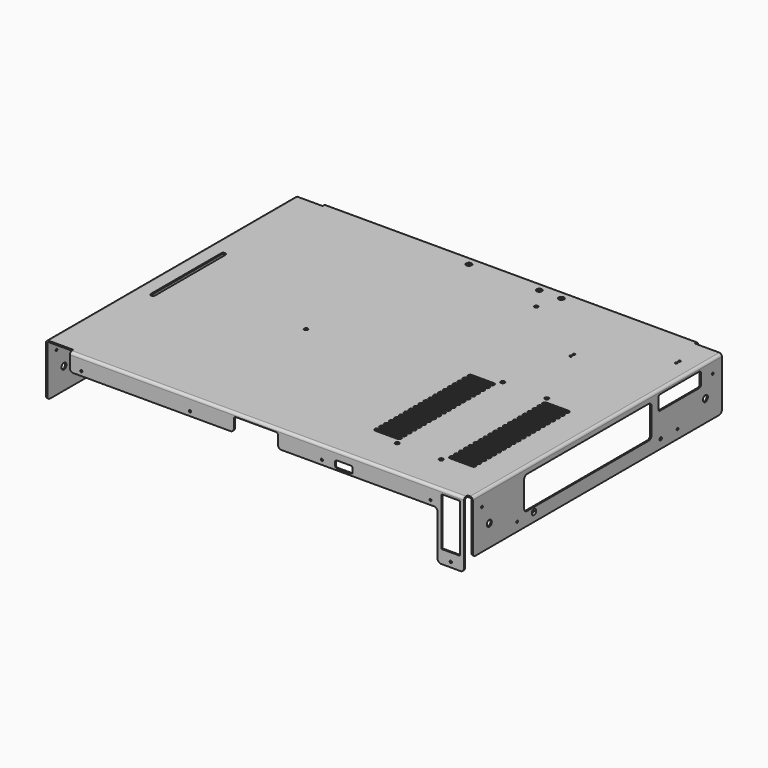
from build123d import *

# Parameters (mm, degrees)
PAD001_DEPTH  = 2.5
ARRAY_Y_COUNT = 20
ARRAY_Y_PITCH = 6.96
SKETCH_W      = 485
SKETCH_H      = 364
SKETCH_R      = 2.07
SKETCH_R_2    = 3.1
SKETCH_R_3    = 1.23
SKETCH_R_4    = 2.25
PAD_DEPTH     = 1.5
SKETCH002_W   = 31
SKETCH002_H   = 5
SKETCH002_W_2 = 6
POCKET_DEPTH  = 5
SKETCH003_W   = 354
SKETCH003_H   = 60
SKETCH003_R   = 1.23
SKETCH003_R_2 = 3.5
SKETCH003_R_3 = 1.7
SKETCH003_W_2 = 181
SKETCH003_H_2 = 37
SKETCH003_W_3 = 60
SKETCH003_H_3 = 16.5
PAD002_DEPTH  = 1.5
FILLET_R      = 4
FILLET001_R   = 2
CHAMFER_SIZE  = 1.45
SKETCH004_W   = 354
SKETCH004_H   = 60
SKETCH004_R   = 1.23
SKETCH004_R_2 = 3.5
PAD003_DEPTH  = 1.5
FILLET002_R   = 4
SKETCH005_R   = 1.23
SKETCH005_W   = 21.3
SKETCH005_H   = 54.9
SKETCH005_W_2 = 20
SKETCH005_H_2 = 8
PAD004_DEPTH  = 1.5
FILLET003_R   = 4
FILLET004_R   = 2
FILLET005_R   = 1
SKETCH006_R   = 1.23
PAD005_DEPTH  = 1.5
FILLET006_R   = 1
FILLET007_R   = 4
FILLET008_R   = 1.5
FILLET009_R   = 3


with BuildPart() as array:
    # Sketch001 → Pad001 (new body, symmetric)
    with BuildSketch(Plane.XY):
        with BuildLine():
            Line((95.00002, 6.15), (120.00002, 6.15))
            ThreePointArc((119.999999, 1.15), (122.5, 3.64999), (120.00002, 6.15))
            Line((95.00004, 1.15), (119.999999, 1.15))
            ThreePointArc((95.00002, 6.15), (92.50004, 3.64999), (95.00004, 1.15))
        make_face()
        with BuildLine():
            Line((180, 6.15), (204.99998, 6.15))
            ThreePointArc((205, 1.15), (207.499981, 3.65001), (204.99998, 6.15))
            Line((180, 1.15), (205, 1.15))
            ThreePointArc((180, 6.15), (177.5, 3.65), (180, 1.15))
        make_face()
    extrude(amount=PAD001_DEPTH, both=True)

    # Array Y: Array ×20


with BuildPart() as array_1:
    add(array.part)
    with Locations(*[(0, -i * ARRAY_Y_PITCH, 0) for i in range(1, ARRAY_Y_COUNT)]):
        add(array.part)


with BuildPart() as fillet009:
    # Sketch → Pad (new body)
    with BuildSketch(Plane.XY):
        Rectangle(SKETCH_W, SKETCH_H)
        with Locations((-75, -17)):
            Circle(SKETCH_R, mode=Mode.SUBTRACT)
        with Locations((-40, 170.7)):
            Circle(SKETCH_R_2, mode=Mode.SUBTRACT)
        with Locations((40, 170.7)):
            Circle(SKETCH_R_2, mode=Mode.SUBTRACT)
        with Locations((65, 170.7)):
            Circle(SKETCH_R_2, mode=Mode.SUBTRACT)
        with Locations((57.5, 144.5)):
            Circle(SKETCH_R, mode=Mode.SUBTRACT)
        with Locations((222.17, 142)):
            Circle(SKETCH_R_3, mode=Mode.SUBTRACT)
        with Locations((222.17, 137.5)):
            Circle(SKETCH_R_3, mode=Mode.SUBTRACT)
        with Locations((140.89, 93.74)):
            Circle(SKETCH_R_3, mode=Mode.SUBTRACT)
        with Locations((140.89, 89.24)):
            Circle(SKETCH_R_3, mode=Mode.SUBTRACT)
        with Locations((125, 12.5)):
            Circle(SKETCH_R_4, mode=Mode.SUBTRACT)
        with Locations((125, -137.5)):
            Circle(SKETCH_R_4, mode=Mode.SUBTRACT)
        with Locations((175, -137.5)):
            Circle(SKETCH_R_4, mode=Mode.SUBTRACT)
        with Locations((175, 12.5)):
            Circle(SKETCH_R_4, mode=Mode.SUBTRACT)
        with BuildLine():
            Line((-225, 50), (-225, -50))
            ThreePointArc((-225, -50), (-222.5, -52.5), (-220, -50))
            Line((-220, 50), (-220, -50))
            ThreePointArc((-220, 50), (-222.5, 52.5), (-225, 50))
        make_face(mode=Mode.SUBTRACT)
    extrude(amount=PAD_DEPTH)

    # Cut: cut Array
    add(array_1.part, mode=Mode.SUBTRACT)

    # Sketch002 → Pocket (cut)
    with BuildSketch(Plane.XY.offset(1.5)):
        with Locations((-227, 179.5)):
            Rectangle(SKETCH002_W, SKETCH002_H)
        with Locations((-227, -179.5)):
            Rectangle(SKETCH002_W, SKETCH002_H)
        with Locations((227, 179.5)):
            Rectangle(SKETCH002_W, SKETCH002_H)
        with Locations((239.5, -179.5)):
            Rectangle(SKETCH002_W_2, SKETCH002_H)
    extrude(amount=-POCKET_DEPTH, mode=Mode.SUBTRACT)

    # Sketch003 → Pad002 (new body)
    with BuildSketch(Plane.YZ.offset(242.5)):
        with Locations((0, -28.5)):
            Rectangle(SKETCH003_W, SKETCH003_H)
        with Locations((-164, -13.5)):
            Circle(SKETCH003_R, mode=Mode.SUBTRACT)
        with Locations((-153.5, -34)):
            Circle(SKETCH003_R_2, mode=Mode.SUBTRACT)
        with Locations((-114, -48.5)):
            Circle(SKETCH003_R, mode=Mode.SUBTRACT)
        with Locations((-90, -48.5)):
            Circle(SKETCH003_R_3, mode=Mode.SUBTRACT)
        with Locations((90, -48.5)):
            Circle(SKETCH003_R_3, mode=Mode.SUBTRACT)
        with Locations((114, -48.5)):
            Circle(SKETCH003_R, mode=Mode.SUBTRACT)
        with Locations((153.5, -34)):
            Circle(SKETCH003_R_2, mode=Mode.SUBTRACT)
        with Locations((164, -13.5)):
            Circle(SKETCH003_R, mode=Mode.SUBTRACT)
        with Locations((-13.5, -25)):
            Rectangle(SKETCH003_W_2, SKETCH003_H_2, mode=Mode.SUBTRACT)
        with Locations((117, -11.75)):
            Rectangle(SKETCH003_W_3, SKETCH003_H_3, mode=Mode.SUBTRACT)
    extrude(amount=-PAD002_DEPTH)

    # Fillet
    fillet_edges = [fillet009.edges().sort_by_distance(p)[0] for p in [
        (241.75, -177, -58.5),
        (241.75, 77, -6.5),
        (241.75, -104, -6.5),
        (241.75, -104, -43.5),
        (241.75, 77, -43.5),
        (241.75, 177, -58.5),
    ]]
    fillet(fillet_edges, radius=FILLET_R)

    # Fillet001
    fillet001_edges = [fillet009.edges().sort_by_distance(p)[0] for p in [
        (241.75, 87, -20),
        (241.75, 147, -20),
        (241.75, 147, -3.5),
        (241.75, 87, -3.5),
    ]]
    fillet(fillet001_edges, radius=FILLET001_R)

    # Chamfer
    chamfer_edges = [fillet009.edges().sort_by_distance(p)[0] for p in [
        (242.5, -91.7, -48.5),
    ]]
    chamfer(chamfer_edges, length=CHAMFER_SIZE)

    # Sketch004 → Pad003 (new body)
    with BuildSketch(Plane(origin=(-242.5, 0, 0), x_dir=(0, -1, 0), z_dir=(-1, 0, 0))):
        with Locations((0, -28.5)):
            Rectangle(SKETCH004_W, SKETCH004_H)
        with Locations((164, -13.5)):
            Circle(SKETCH004_R, mode=Mode.SUBTRACT)
        with Locations((114, -48.5)):
            Circle(SKETCH004_R, mode=Mode.SUBTRACT)
        with Locations((153.5, -34)):
            Circle(SKETCH004_R_2, mode=Mode.SUBTRACT)
        with Locations((-153.5, -34)):
            Circle(SKETCH004_R_2, mode=Mode.SUBTRACT)
        with Locations((-164, -13.5)):
            Circle(SKETCH004_R, mode=Mode.SUBTRACT)
        with Locations((-114, -48.5)):
            Circle(SKETCH004_R, mode=Mode.SUBTRACT)
    extrude(amount=-PAD003_DEPTH)

    # Fillet002
    fillet002_edges = [fillet009.edges().sort_by_distance(p)[0] for p in [
        (-241.75, 177, -58.5),
        (-241.75, -177, -58.5),
    ]]
    fillet(fillet002_edges, radius=FILLET002_R)

    # Sketch005 → Pad004 (new body)
    with BuildSketch(Plane.XZ.offset(182)):
        Polygon((-211.5, 1.5), (236.5, 1.5), (236.5, -73.5), (206.5, -73.5), (206.5, -18.5), (25, -18.5), (25, -2.5), (-25, -2.5), (-25, -18.5), (-211.5, -18.5), align=None)
        with Locations((221.5, -67.9)):
            Circle(SKETCH005_R, mode=Mode.SUBTRACT)
        with Locations((-198.5, -13.5)):
            Circle(SKETCH005_R, mode=Mode.SUBTRACT)
        with Locations((-75, -13.5)):
            Circle(SKETCH005_R, mode=Mode.SUBTRACT)
        with Locations((75, -13.5)):
            Circle(SKETCH005_R, mode=Mode.SUBTRACT)
        with Locations((198.5, -13.5)):
            Circle(SKETCH005_R, mode=Mode.SUBTRACT)
        with Locations((221.5, -30.95)):
            Rectangle(SKETCH005_W, SKETCH005_H, mode=Mode.SUBTRACT)
        with Locations((100, -12.5)):
            Rectangle(SKETCH005_W_2, SKETCH005_H_2, mode=Mode.SUBTRACT)
    extrude(amount=-PAD004_DEPTH)

    # Fillet003
    fillet003_edges = [fillet009.edges().sort_by_distance(p)[0] for p in [
        (-211.5, -181.25, -18.5),
        (25, -181.25, -18.5),
        (-25, -181.25, -18.5),
        (206.5, -181.25, -73.5),
        (236.5, -181.25, -73.5),
        (206.5, -181.25, -18.5),
    ]]
    fillet(fillet003_edges, radius=FILLET003_R)

    # Fillet004
    fillet004_edges = [fillet009.edges().sort_by_distance(p)[0] for p in [
        (25, -181.25, -2.5),
        (-25, -181.25, -2.5),
        (90, -181.25, -8.5),
        (110, -181.25, -8.5),
        (110, -181.25, -16.5),
        (90, -181.25, -16.5),
    ]]
    fillet(fillet004_edges, radius=FILLET004_R)

    # Fillet005
    fillet005_edges = [fillet009.edges().sort_by_distance(p)[0] for p in [
        (232.15, -181.25, -3.5),
        (210.85, -181.25, -3.5),
        (210.85, -181.25, -58.4),
        (232.15, -181.25, -58.4),
    ]]
    fillet(fillet005_edges, radius=FILLET005_R)

    # Sketch006 → Pad005 (new body)
    with BuildSketch(Plane(origin=(0, 182, 0), x_dir=(-1, 0, 0), z_dir=(0, 1, 0))):
        Polygon((211.5, 1.5), (-211.5, 1.5), (-211.5, -18.5), (-52.5, -18.5), (-52.5, -13.5), (52.5, -13.5), (52.5, -18.5), (211.5, -18.5), align=None)
        with Locations((-204.5, -13.5)):
            Circle(SKETCH006_R, mode=Mode.SUBTRACT)
        with Locations((204.5, -13.5)):
            Circle(SKETCH006_R, mode=Mode.SUBTRACT)
    extrude(amount=-PAD005_DEPTH)

    # Fillet006
    fillet006_edges = [fillet009.edges().sort_by_distance(p)[0] for p in [
        (52.5, 181.25, -13.5),
        (52.5, 181.25, -18.5),
        (-52.5, 181.25, -13.5),
        (-52.5, 181.25, -18.5),
    ]]
    fillet(fillet006_edges, radius=FILLET006_R)

    # Fillet007
    fillet007_edges = [fillet009.edges().sort_by_distance(p)[0] for p in [
        (-211.5, 181.25, -18.5),
        (211.5, 181.25, -18.5),
    ]]
    fillet(fillet007_edges, radius=FILLET007_R)

    # Fillet008
    fillet008_edges = [fillet009.edges().sort_by_distance(p)[0] for p in [
        (-241, 0, 0),
        (0, 180.5, 0),
        (241, 0, 0),
        (12.5, -180.5, 0),
    ]]
    fillet(fillet008_edges, radius=FILLET008_R)

    # Fillet009
    fillet009_edges = [fillet009.edges().sort_by_distance(p)[0] for p in [
        (0, 182, 1.5),
        (-242.5, 0, 1.5),
        (12.5, -182, 1.5),
        (242.5, 0, 1.5),
    ]]
    fillet(fillet009_edges, radius=FILLET009_R)


solid = fillet009.part
